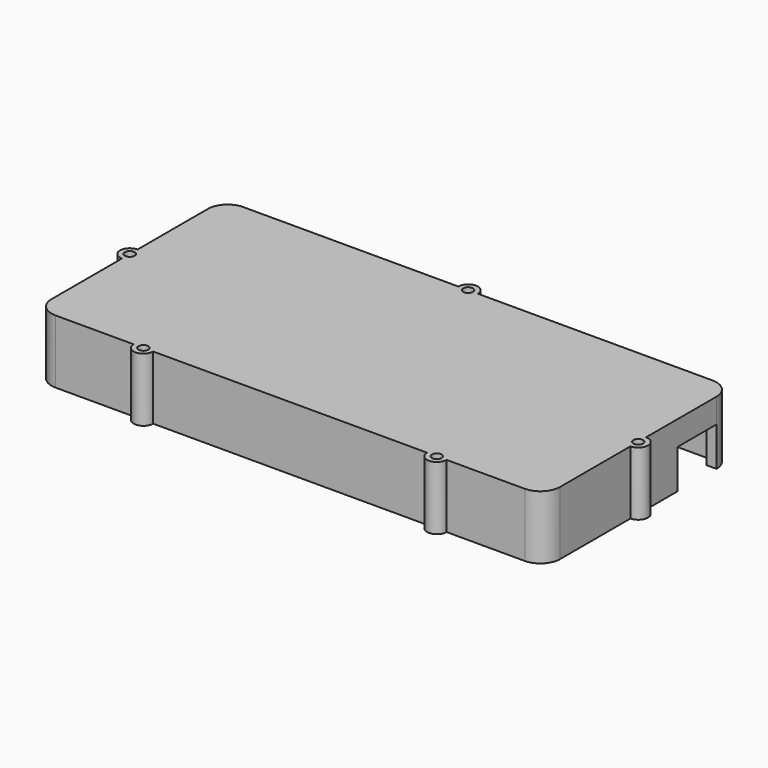
from build123d import *

# Parameters (mm, degrees)
CYLINDER006_R     = 1
CYLINDER006_DEPTH = 13
CYLINDER007_R     = 1
CYLINDER007_DEPTH = 13
CYLINDER008_R     = 1
CYLINDER008_DEPTH = 13
CYLINDER005_R     = 1
CYLINDER005_DEPTH = 13
CYLINDER009_R     = 1
CYLINDER009_DEPTH = 13
CYLINDER001_R     = 2
CYLINDER001_DEPTH = 13
CYLINDER002_R     = 2
CYLINDER002_DEPTH = 13
CYLINDER003_R     = 2
CYLINDER003_DEPTH = 13
CYLINDER004_R     = 2
CYLINDER004_DEPTH = 13
BOX001_W          = 10
BOX001_H          = 17
BOX001_DEPTH      = 8
BOX002_W          = 10
BOX002_H          = 17
BOX002_DEPTH      = 8
BOX003_W          = 10
BOX003_H          = 17
BOX003_DEPTH      = 8
BOX004_W          = 10
BOX004_H          = 17
BOX004_DEPTH      = 8
BOX005_W          = 10
BOX005_H          = 17
BOX005_DEPTH      = 8
BOX_W             = 100
BOX_H             = 44
BOX_DEPTH         = 16.5
BOX006_W          = 104
BOX006_H          = 48
BOX006_DEPTH      = 13
FILLET_R          = 4
CYLINDER_R        = 2
CYLINDER_DEPTH    = 13


with BuildPart() as cylinder006:
    # Cylinder006 → Cylinder006 (new body)
    with BuildSketch(Plane(origin=(20, -2, 0), x_dir=(1, 0, 0), z_dir=(0, 0, 1))):
        Circle(CYLINDER006_R)
    extrude(amount=CYLINDER006_DEPTH)


with BuildPart() as cylinder007:
    # Cylinder007 → Cylinder007 (new body)
    with BuildSketch(Plane(origin=(80, -2, 0), x_dir=(1, 0, 0), z_dir=(0, 0, 1))):
        Circle(CYLINDER007_R)
    extrude(amount=CYLINDER007_DEPTH)


with BuildPart() as cylinder008:
    # Cylinder008 → Cylinder008 (new body)
    with BuildSketch(Plane(origin=(48, 46, 0), x_dir=(1, 0, 0), z_dir=(0, 0, 1))):
        Circle(CYLINDER008_R)
    extrude(amount=CYLINDER008_DEPTH)


with BuildPart() as cylinder005:
    # Cylinder005 → Cylinder005 (new body)
    with BuildSketch(Plane(origin=(-2, 22, 0), x_dir=(1, 0, 0), z_dir=(0, 0, 1))):
        Circle(CYLINDER005_R)
    extrude(amount=CYLINDER005_DEPTH)


with BuildPart() as cylinder009:
    # Cylinder009 → Cylinder009 (new body)
    with BuildSketch(Plane(origin=(102, 22, 0), x_dir=(1, 0, 0), z_dir=(0, 0, 1))):
        Circle(CYLINDER009_R)
    extrude(amount=CYLINDER009_DEPTH)


with BuildPart() as cylinder001:
    # Cylinder001 → Cylinder001 (new body)
    with BuildSketch(Plane(origin=(80, -2, 0), x_dir=(1, 0, 0), z_dir=(0, 0, 1))):
        Circle(CYLINDER001_R)
    extrude(amount=CYLINDER001_DEPTH)


with BuildPart() as cylinder002:
    # Cylinder002 → Cylinder002 (new body)
    with BuildSketch(Plane(origin=(48, 46, 0), x_dir=(1, 0, 0), z_dir=(0, 0, 1))):
        Circle(CYLINDER002_R)
    extrude(amount=CYLINDER002_DEPTH)


with BuildPart() as cylinder003:
    # Cylinder003 → Cylinder003 (new body)
    with BuildSketch(Plane(origin=(-2, 22, 0), x_dir=(1, 0, 0), z_dir=(0, 0, 1))):
        Circle(CYLINDER003_R)
    extrude(amount=CYLINDER003_DEPTH)


with BuildPart() as cylinder004:
    # Cylinder004 → Cylinder004 (new body)
    with BuildSketch(Plane(origin=(102, 22, 0), x_dir=(1, 0, 0), z_dir=(0, 0, 1))):
        Circle(CYLINDER004_R)
    extrude(amount=CYLINDER004_DEPTH)


with BuildPart() as box001:
    # Box001 → Box001 (new body)
    with BuildSketch(Plane(origin=(1.6, 37, 0), x_dir=(1, 0, 0), z_dir=(0, 0, 1))):
        with Locations((5, 8.5)):
            Rectangle(BOX001_W, BOX001_H)
    extrude(amount=BOX001_DEPTH)


with BuildPart() as box002:
    # Box002 → Box002 (new body)
    with BuildSketch(Plane(origin=(13.8, 37, 0), x_dir=(1, 0, 0), z_dir=(0, 0, 1))):
        with Locations((5, 8.5)):
            Rectangle(BOX002_W, BOX002_H)
    extrude(amount=BOX002_DEPTH)


with BuildPart() as box003:
    # Box003 → Box003 (new body)
    with BuildSketch(Plane(origin=(25.8, 37, 0), x_dir=(1, 0, 0), z_dir=(0, 0, 1))):
        with Locations((5, 8.5)):
            Rectangle(BOX003_W, BOX003_H)
    extrude(amount=BOX003_DEPTH)


with BuildPart() as box004:
    # Box004 → Box004 (new body)
    with BuildSketch(Plane(origin=(58.8, 37, 0), x_dir=(1, 0, 0), z_dir=(0, 0, 1))):
        with Locations((5, 8.5)):
            Rectangle(BOX004_W, BOX004_H)
    extrude(amount=BOX004_DEPTH)


with BuildPart() as box005:
    # Box005 → Box005 (new body)
    with BuildSketch(Plane(origin=(93.8, 42, 0), x_dir=(0, -1, 0), z_dir=(0, 0, 1))):
        with Locations((5, 8.5)):
            Rectangle(BOX005_W, BOX005_H)
    extrude(amount=BOX005_DEPTH)


with BuildPart() as fusion:
    # Box → Box (new body)
    with BuildSketch(Plane.XY.offset(-5)):
        with Locations((50, 22)):
            Rectangle(BOX_W, BOX_H)
    extrude(amount=BOX_DEPTH)

    # Fusion: union Box001, Box002, Box003, Box004, Box005
    add(box001.part)
    add(box002.part)
    add(box003.part)
    add(box004.part)
    add(box005.part)


with BuildPart() as fillet_body:
    # Box006 → Box006 (new body)
    with BuildSketch(Plane(origin=(-2, -2, 0), x_dir=(1, 0, 0), z_dir=(0, 0, 1))):
        with Locations((52, 24)):
            Rectangle(BOX006_W, BOX006_H)
    extrude(amount=BOX006_DEPTH)

    # Cut: cut Fusion
    add(fusion.part, mode=Mode.SUBTRACT)

    # Fillet
    fillet_edges = [fillet_body.edges().sort_by_distance(p)[0] for p in [
        (-2, -2, 6.5),
        (-2, 46, 6.5),
        (102, -2, 6.5),
        (102, 46, 6.5),
    ]]
    fillet(fillet_edges, radius=FILLET_R)


with BuildPart() as cut006:
    # Cylinder → Cylinder (new body)
    with BuildSketch(Plane(origin=(20, -2, 0), x_dir=(1, 0, 0), z_dir=(0, 0, 1))):
        Circle(CYLINDER_R)
    extrude(amount=CYLINDER_DEPTH)

    # Fusion002: union Cylinder001, Cylinder002, Cylinder003, Cylinder004, Fillet body
    add(cylinder001.part)
    add(cylinder002.part)
    add(cylinder003.part)
    add(cylinder004.part)
    add(fillet_body.part)

    # Cut002: cut Cylinder009
    add(cylinder009.part, mode=Mode.SUBTRACT)

    # Cut003: cut Cylinder005
    add(cylinder005.part, mode=Mode.SUBTRACT)

    # Cut004: cut Cylinder008
    add(cylinder008.part, mode=Mode.SUBTRACT)

    # Cut005: cut Cylinder007
    add(cylinder007.part, mode=Mode.SUBTRACT)

    # Cut006: cut Cylinder006
    add(cylinder006.part, mode=Mode.SUBTRACT)


solid = cut006.part
